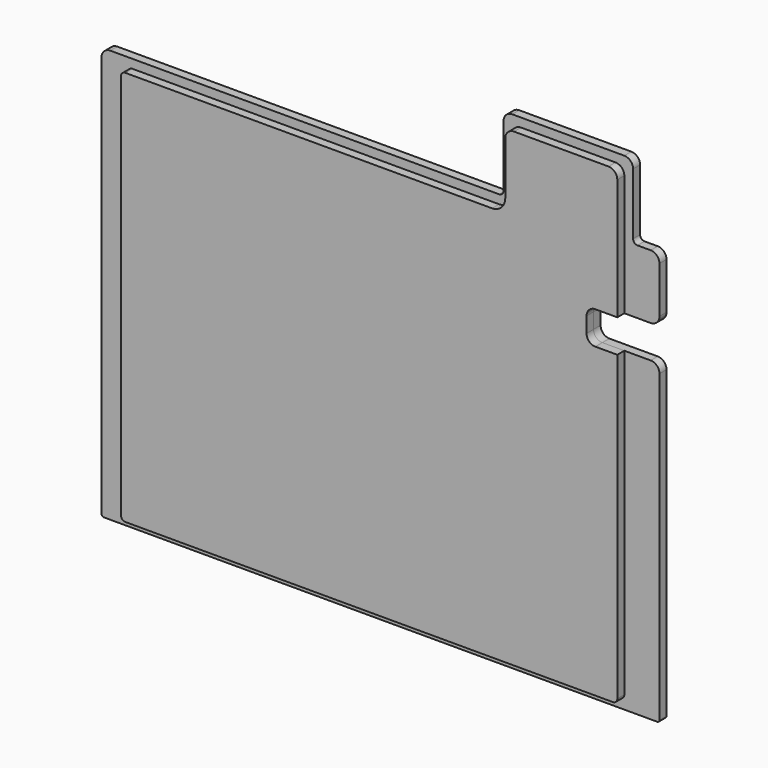
from build123d import *

# Parameters (mm, degrees)
F1_DEPTH = 4
F3_DEPTH = 4


with BuildPart() as f1:
    # F0 (on Front) → F1 (new body)
    with BuildSketch(Plane.XZ):
        with BuildLine():
            ThreePointArc((127, 90), (125.828427, 92.828427), (123, 94))
            Line((123, 94), (117, 94))
            ThreePointArc((117, 94), (115.585786, 94.585786), (115, 96))
            Line((115, 96), (115, 124))
            ThreePointArc((115, 124), (113.828427, 126.828427), (111, 128))
            Line((111, 128), (60, 128))
            ThreePointArc((60, 128), (57.171573, 126.828427), (56, 124))
            Line((56, 124), (56, 96))
            ThreePointArc((56, 96), (55.414214, 94.585786), (54, 94))
            Line((54, 94), (-123, 94))
            ThreePointArc((-123, 94), (-125.828427, 92.828427), (-127, 90))
            Line((-127, 90), (-127, -93))
            ThreePointArc((-127, -93), (-126.707107, -93.707107), (-126, -94))
            Line((-126, -94), (126, -94))
            ThreePointArc((126, -94), (126.707107, -93.707107), (127, -93))
            Line((127, -93), (127, 45.838684))
            ThreePointArc((127, 45.838684), (125.828427, 48.667112), (123, 49.838684))
            Line((123, 49.838684), (101, 49.838684))
            ThreePointArc((101, 49.838684), (98.171573, 51.010257), (97, 53.838684))
            Line((97, 53.838684), (97, 60.838684))
            ThreePointArc((97, 60.838684), (98.171573, 63.667112), (101, 64.838684))
            Line((101, 64.838684), (123, 64.838684))
            ThreePointArc((123, 64.838684), (125.828427, 66.010257), (127, 68.838684))
            Line((127, 68.838684), (127, 90))
        make_face()
    extrude(amount=F1_DEPTH)


with BuildPart() as f3:
    # F2 (on face) → F3 (new body)
    with BuildSketch(Plane.XZ.offset(4)):
        with BuildLine():
            ThreePointArc((60, 96), (58.242641, 91.757359), (54, 90))
            Line((54, 90), (-112.939762, 90))
            ThreePointArc((-112.939762, 90), (-114.353976, 89.414214), (-114.939762, 88))
            Line((-114.939762, 88), (-114.939762, -88))
            ThreePointArc((-114.939762, -88), (-114.353976, -89.414214), (-112.939762, -90))
            Line((-112.939762, -90), (109, -90))
            ThreePointArc((109, -90), (110.414214, -89.414214), (111, -88))
            Line((111, -88), (111, 49.838684))
            Line((111, 49.838684), (101, 49.838684))
            ThreePointArc((101, 49.838684), (98.171573, 51.010257), (97, 53.838684))
            Line((97, 53.838684), (97, 60.838684))
            ThreePointArc((97, 60.838684), (98.171573, 63.667112), (101, 64.838684))
            Line((101, 64.838684), (111, 64.838684))
            Line((111, 64.838684), (111, 96))
            Line((111, 96), (111, 120))
            ThreePointArc((111, 120), (109.828427, 122.828427), (107, 124))
            Line((107, 124), (64, 124))
            ThreePointArc((64, 124), (61.171573, 122.828427), (60, 120))
            Line((60, 120), (60, 96))
        make_face()
    extrude(amount=F3_DEPTH)


solid = Compound([f1.part, f3.part])
